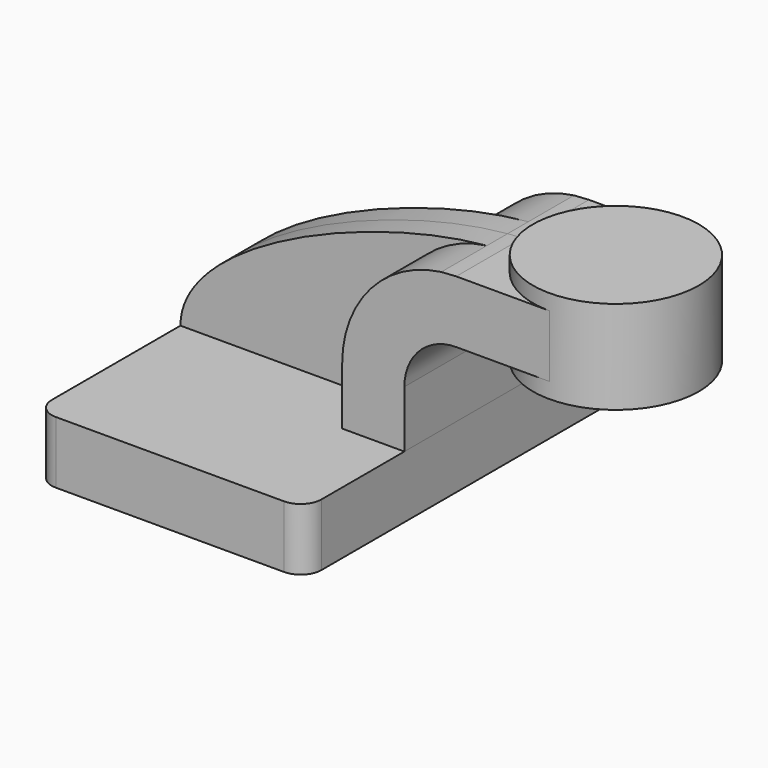
from build123d import *

# Parameters (mm, degrees)
F1_DEPTH = 63.5
F3_DEPTH = 7.9375
F0_W     = 25.4
F0_H     = 19.05
F4_DEPTH = 25.4
F5_R     = 6.35


with BuildPart() as f1:
    # F0 (on Front) → F1 (new body, symmetric)
    with BuildSketch(Plane.XZ):
        Polygon((22.225, 9.525), (-41.275, 9.525), (-41.275, -9.525), (41.275, -9.525), (41.275, 9.525), align=None)
    extrude(amount=F1_DEPTH, both=True)

    # F5
    f5_edges = [f1.edges().sort_by_distance(p)[0] for p in [
        (41.275, -63.5, 0),
        (-41.275, -63.5, 0),
        (41.275, 63.5, 0),
        (-41.275, 63.5, 0),
    ]]
    fillet(f5_edges, radius=F5_R)


with BuildPart() as f2:
    # F0 (on Front) → F2 (revolve)
    with BuildSketch(Plane.XZ):
        Polygon((85.725, 66.675), (85.725, 61.9125), (85.725, 42.8625), (85.725, 38.1), (111.125, 38.1), (111.125, 66.675), align=None)
    revolve(axis=Axis((85.725, 0, 52.3875), (0, 0, 1)))


with BuildPart() as f3:
    # F0 (on Front) → F3 (new body, symmetric)
    with BuildSketch(Plane.XZ):
        with BuildLine():
            add(Edge.make_bspline(
                [(-41.275, 9.525), (-41.23707723, 34.4016500287), (16.8415314076, 58.4008542063), (52.5728901925, 61.6112734918)],
                knots=[0, 0, 0, 0, 106.8022247868, 106.8022247868, 106.8022247868, 106.8022247868], degree=3))
            Line((-41.275, 9.525), (22.225, 9.525))
            Line((22.225, 9.525), (22.225, 26.9875))
            ThreePointArc((22.225, 26.9875), (30.8858496708, 50.0081436158), (52.5728901925, 61.6112734918))
        make_face()
    extrude(amount=F3_DEPTH, both=True)


with BuildPart() as f4:
    # F0 (on Front) → F4 (new body, symmetric)
    with BuildSketch(Plane.XZ):
        with Locations((73.025, 52.3875)):
            Rectangle(F0_W, F0_H)
        with BuildLine():
            Line((22.225, 26.9875), (22.225, 9.525))
            Line((22.225, 9.525), (41.275, 9.525))
            Line((41.275, 9.525), (41.275, 26.9875))
            ThreePointArc((41.275, 26.9875), (45.9246798487, 38.2128201513), (57.15, 42.8625))
            Line((57.15, 42.8625), (60.325, 42.8625))
            Line((60.325, 42.8625), (60.325, 61.9125))
            Line((60.325, 61.9125), (57.15, 61.9125))
            add(Edge.make_bspline(
                [(52.5728901925, 61.6112734918), (54.1440816458, 61.7524431398), (55.6720632016, 61.8534162861), (57.15, 61.9125)],
                knots=[106.8022247868, 106.8022247868, 106.8022247868, 106.8022247868, 111.4985685166, 111.4985685166, 111.4985685166, 111.4985685166], degree=3))
            ThreePointArc((52.5728901925, 61.6112734918), (30.8858496708, 50.0081436158), (22.225, 26.9875))
        make_face()
    extrude(amount=F4_DEPTH, both=True)


solid = Compound([f1.part, f2.part, f3.part, f4.part])
